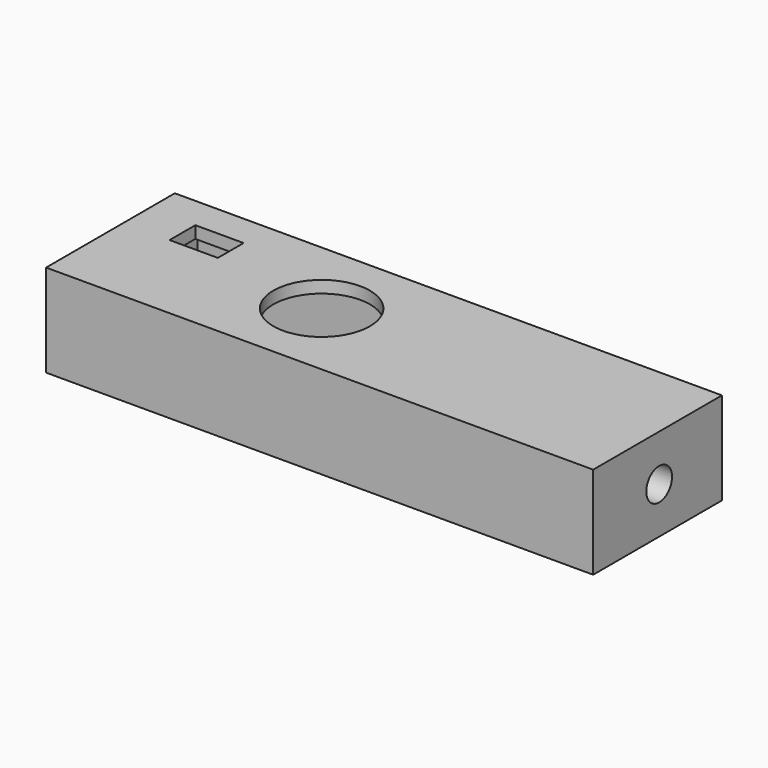
from build123d import *

# Parameters (mm, degrees)
CYLINDER010_R     = 2
CYLINDER010_DEPTH = 10
CYLINDER011_R     = 2
CYLINDER011_DEPTH = 10
CYLINDER009_R     = 6
CYLINDER009_DEPTH = 10
BOX007_W          = 6
BOX007_H          = 4
BOX007_DEPTH      = 10
CYLINDER001_R     = 0.7
CYLINDER001_DEPTH = 10
CYLINDER_R        = 0.7
CYLINDER_DEPTH    = 10
BOX006_W          = 3.5
BOX006_H          = 5
BOX006_DEPTH      = 5
BOX005_W          = 3.5
BOX005_H          = 5
BOX005_DEPTH      = 5
CYLINDER007_R     = 3.2
CYLINDER007_DEPTH = 10
BOX004_W          = 60
BOX004_H          = 17
BOX004_DEPTH      = 10
BOX003_W          = 68
BOX003_H          = 20
BOX003_DEPTH      = 11.5


with BuildPart() as cylinder010:
    # Cylinder010 → Cylinder010 (new body)
    with BuildSketch(Plane(origin=(-27, 8.25, -0.25), x_dir=(0, 0, 1), z_dir=(-1, 0, 0))):
        Circle(CYLINDER010_R)
    extrude(amount=CYLINDER010_DEPTH)


with BuildPart() as fusion003006:
    # Cylinder011 → Cylinder011 (new body)
    with BuildSketch(Plane(origin=(37, 8.25, -0.25), x_dir=(0, 0, 1), z_dir=(-1, 0, 0))):
        Circle(CYLINDER011_R)
    extrude(amount=CYLINDER011_DEPTH)

    # Fusion003006: union Cylinder010
    add(cylinder010.part)


with BuildPart() as cylinder009:
    # Cylinder009 → Cylinder009 (new body)
    with BuildSketch(Plane(origin=(-5.75, 8, 0), x_dir=(1, 0, 0), z_dir=(0, 0, 1))):
        Circle(CYLINDER009_R)
    extrude(amount=CYLINDER009_DEPTH)


with BuildPart() as cube007:
    # Box007 → Box007 (new body)
    with BuildSketch(Plane(origin=(-26.25, 10, 0), x_dir=(1, 0, 0), z_dir=(0, 0, 1))):
        with Locations((3, 2)):
            Rectangle(BOX007_W, BOX007_H)
    extrude(amount=BOX007_DEPTH)


with BuildPart() as cylinder001:
    # Cylinder001 → Cylinder001 (new body)
    with BuildSketch(Plane(origin=(47.75, 14.5, 0), x_dir=(1, 0, 0), z_dir=(0, 0, 1))):
        Circle(CYLINDER001_R)
    extrude(amount=CYLINDER001_DEPTH)


with BuildPart() as fusion003003:
    # Cylinder → Cylinder (new body)
    with BuildSketch(Plane(origin=(7.5, 1.5, 0), x_dir=(1, 0, 0), z_dir=(0, 0, 1))):
        Circle(CYLINDER_R)
    extrude(amount=CYLINDER_DEPTH)

    # Fusion003003: union Cylinder001
    add(cylinder001.part)


with BuildPart() as fusion003003_1:
    # Fusion003003 placement: moved
    add(fusion003003.part.moved(Location((-27.25, 0, -6))))


with BuildPart() as cube006:
    # Box006 → Box006 (new body)
    with BuildSketch(Plane(origin=(18.75, 13, 0), x_dir=(1, 0, 0), z_dir=(0, 0, 1))):
        with Locations((1.75, 2.5)):
            Rectangle(BOX006_W, BOX006_H)
    extrude(amount=BOX006_DEPTH)


with BuildPart() as fusion003004:
    # Box005 → Box005 (new body)
    with BuildSketch(Plane(origin=(-21.5, -2, 0), x_dir=(1, 0, 0), z_dir=(0, 0, 1))):
        with Locations((1.75, 2.5)):
            Rectangle(BOX005_W, BOX005_H)
    extrude(amount=BOX005_DEPTH)

    # Fusion003004: union Cube006
    add(cube006.part)


with BuildPart() as cylinder007:
    # Cylinder007 → Cylinder007 (new body)
    with BuildSketch(Plane(origin=(-5.75, 8, 0), x_dir=(1, 0, 0), z_dir=(0, 0, 1))):
        Circle(CYLINDER007_R)
    extrude(amount=CYLINDER007_DEPTH)


with BuildPart() as cube004:
    # Box004 → Box004 (new body)
    with BuildSketch(Plane(origin=(-28, -0.5, -6), x_dir=(1, 0, 0), z_dir=(0, 0, 1))):
        with Locations((30, 8.5)):
            Rectangle(BOX004_W, BOX004_H)
    extrude(amount=BOX004_DEPTH)


with BuildPart() as cut007:
    # Box003 → Box003 (new body)
    with BuildSketch(Plane(origin=(-32, -2, -6), x_dir=(1, 0, 0), z_dir=(0, 0, 1))):
        with Locations((34, 10)):
            Rectangle(BOX003_W, BOX003_H)
    extrude(amount=BOX003_DEPTH)

    # Cut002: cut Cube004
    add(cube004.part, mode=Mode.SUBTRACT)

    # Cut003: cut Cylinder007
    add(cylinder007.part, mode=Mode.SUBTRACT)

    # Fusion003005: union Fusion003004
    add(fusion003004.part)

    # Cut004: cut Fusion003003
    add(fusion003003_1.part, mode=Mode.SUBTRACT)

    # Cut005: cut Cube007
    add(cube007.part, mode=Mode.SUBTRACT)

    # Cut006: cut Cylinder009
    add(cylinder009.part, mode=Mode.SUBTRACT)

    # Cut007: cut Fusion003006
    add(fusion003006.part, mode=Mode.SUBTRACT)


solid = cut007.part
